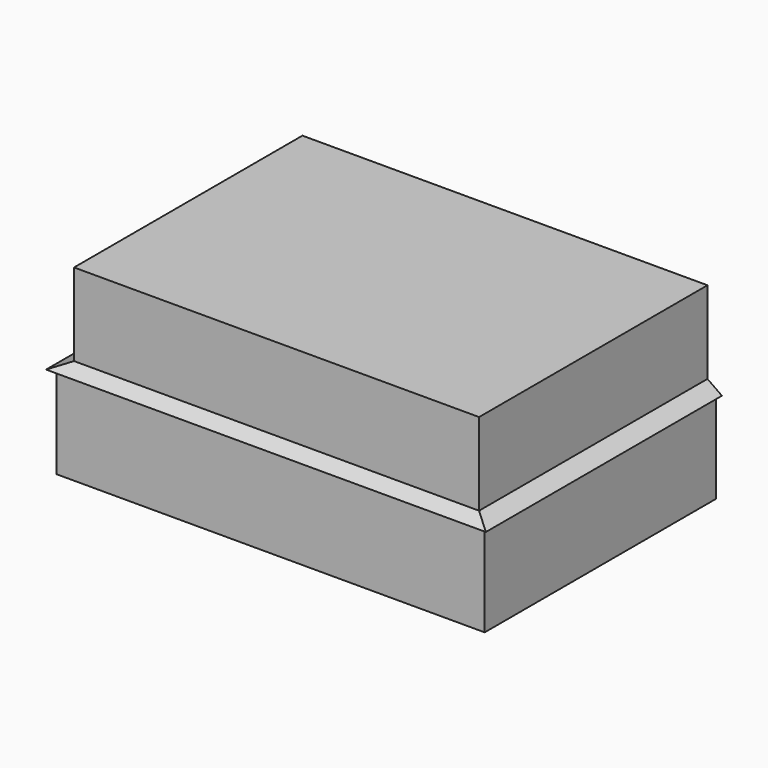
from build123d import *

# Parameters (mm, degrees)
F0_W          = 11277.6
F0_H          = 7620
F1_DEPTH      = 2438.4
F2_W          = 10668
F2_H          = 7518.4
F3_DEPTH      = 2438.4
F5_DEPTH      = 7620
F5_DEPTH_BACK = 152.4
F7_DEPTH      = 11430.001
F7_DEPTH_BACK = 152.401


with BuildPart() as f1:
    # F0 (on Top) → F1 (new body)
    with BuildSketch(Plane.XY):
        with Locations((5638.8, 3810)):
            Rectangle(F0_W, F0_H)
    extrude(amount=F1_DEPTH)



with BuildPart() as f3:
    # F2 (on face) → F3 (new body)
    with BuildSketch(Plane.XY.offset(2438.4)):
        with Locations((5715, 3860.8)):
            Rectangle(F2_W, F2_H)
    extrude(amount=F3_DEPTH)


with BuildPart() as f1_1:
    add(f1.part)

    add(f3.part)  # F5 merges F3
    # F4 (on Front) → F5 (join, two sides)
    with BuildSketch(Plane.XZ) as f5_sk:
        Polygon((381, 2705.1), (-152.4, 2438.4), (11430, 2438.4), (11049, 2705.1), align=None)
    extrude(amount=-F5_DEPTH)
    extrude(f5_sk.sketch, amount=F5_DEPTH_BACK)

    # F6 (on Right) → F7 (cut, two sides)
    with BuildSketch(Plane.YZ) as f7_sk:
        Polygon((-152.4, 2705.1), (-152.4, 2438.4), (101.6, 2705.1), align=None)
    extrude(amount=F7_DEPTH, mode=Mode.SUBTRACT)
    extrude(f7_sk.sketch, amount=-F7_DEPTH_BACK, mode=Mode.SUBTRACT)


solid = f1_1.part
